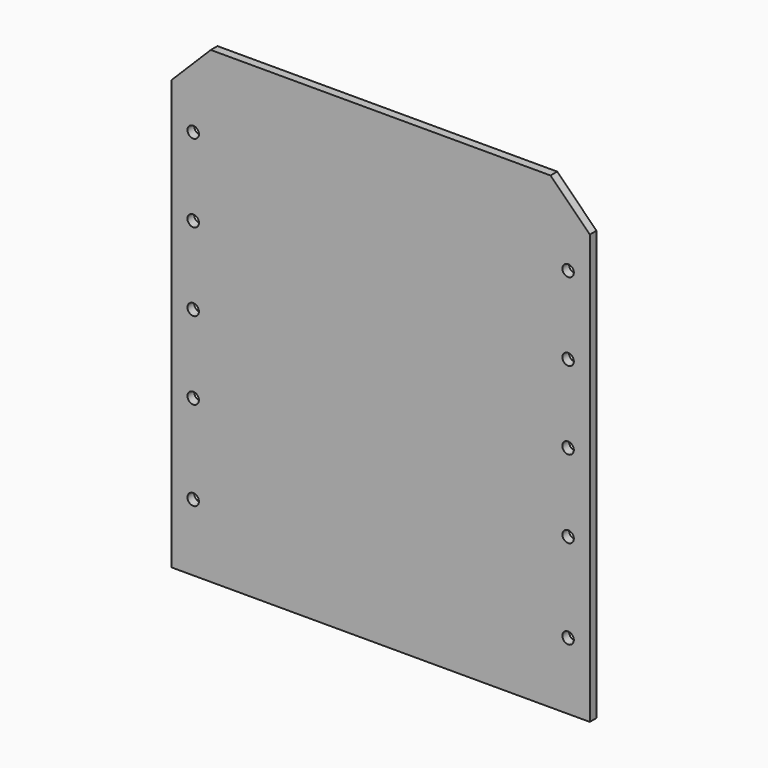
from build123d import *

# Parameters (mm, degrees)
F0_W     = 238.19866
F0_H     = 266.7
F0_R     = 3.2639
F1_DEPTH = 4.7752
F2_SIZE  = 22.352


with BuildPart() as f1:
    # F0 (on Front) → F1 (new body)
    with BuildSketch(Plane.XZ):
        Rectangle(F0_W, F0_H)
        with Locations((-106.75493, -95.25)):
            Circle(F0_R, mode=Mode.SUBTRACT)
        with Locations((-106.75493, -44.45)):
            Circle(F0_R, mode=Mode.SUBTRACT)
        with Locations((106.75493, -95.25)):
            Circle(F0_R, mode=Mode.SUBTRACT)
        with Locations((106.75493, -44.45)):
            Circle(F0_R, mode=Mode.SUBTRACT)
        with Locations((-106.75493, 0)):
            Circle(F0_R, mode=Mode.SUBTRACT)
        with Locations((-106.75493, 44.45)):
            Circle(F0_R, mode=Mode.SUBTRACT)
        with Locations((-106.75493, 88.9)):
            Circle(F0_R, mode=Mode.SUBTRACT)
        with Locations((106.75493, 0)):
            Circle(F0_R, mode=Mode.SUBTRACT)
        with Locations((106.75493, 44.45)):
            Circle(F0_R, mode=Mode.SUBTRACT)
        with Locations((106.75493, 88.9)):
            Circle(F0_R, mode=Mode.SUBTRACT)
    extrude(amount=-F1_DEPTH)

    # F2
    f2_edges = [f1.edges().sort_by_distance(p)[0] for p in [
        (119.09933, 2.3876, 133.35),
        (-119.09933, 2.3876, 133.35),
    ]]
    chamfer(f2_edges, length=F2_SIZE)


solid = f1.part
